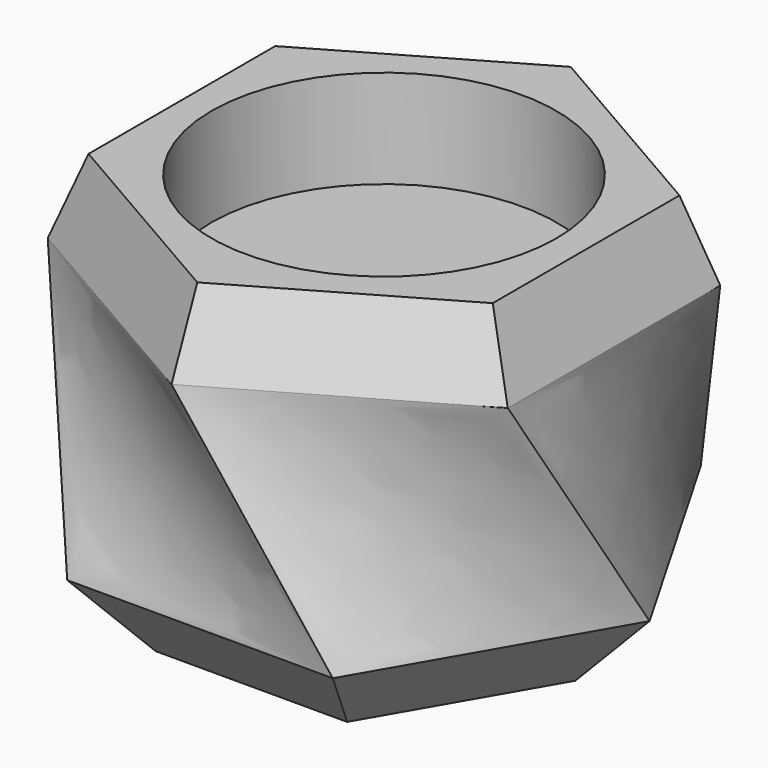
from build123d import *

# Parameters (mm, degrees)
F4_DEPTH = 10
F4_TAPER = 40
F5_DEPTH = 10
F5_TAPER = 20
F6_R     = 22.5
F7_DEPTH = 12.8


with BuildPart() as f3:
    # F0 (on Top) → F3 section 0
    with BuildSketch(Plane.XY):
        Polygon((34.6410161514, 0), (17.3205080757, 30), (-17.3205080757, 30), (-34.6410161514, 0), (-17.3205080757, -30), (17.3205080757, -30), align=None)
    # F2 (on offset) → F3 section 1
    with BuildSketch(Plane.XY.offset(30)):
        Polygon((0, 34.6410161514), (-30, 17.3205080757), (-30, -17.3205080757), (0, -34.6410161514), (30, -17.3205080757), (30, 17.3205080757), align=None)
    loft()

    # F3_face (on face) → F4 (join)
    with BuildSketch(Plane(origin=(0, 0, 0), x_dir=(1, 0, 0), z_dir=(0, 0, -1))):
        Polygon((17.3205080757, 30), (-17.3205080757, 30), (-34.6410161514, 0), (-17.3205080757, -30), (17.3205080757, -30), (34.6410161514, 0), align=None)
    extrude(amount=F4_DEPTH, taper=F4_TAPER)

    # F3_face1 (on face) → F5 (join)
    with BuildSketch(Plane.XY.offset(30)):
        Polygon((0, -34.6410161514), (30, -17.3205080757), (30, 17.3205080757), (0, 34.6410161514), (-30, 17.3205080757), (-30, -17.3205080757), align=None)
    extrude(amount=F5_DEPTH, taper=F5_TAPER)

    # F6 (on face) → F7 (cut)
    with BuildSketch(Plane.XY.offset(40)):
        Circle(F6_R)
    extrude(amount=-F7_DEPTH, mode=Mode.SUBTRACT)


solid = f3.part
